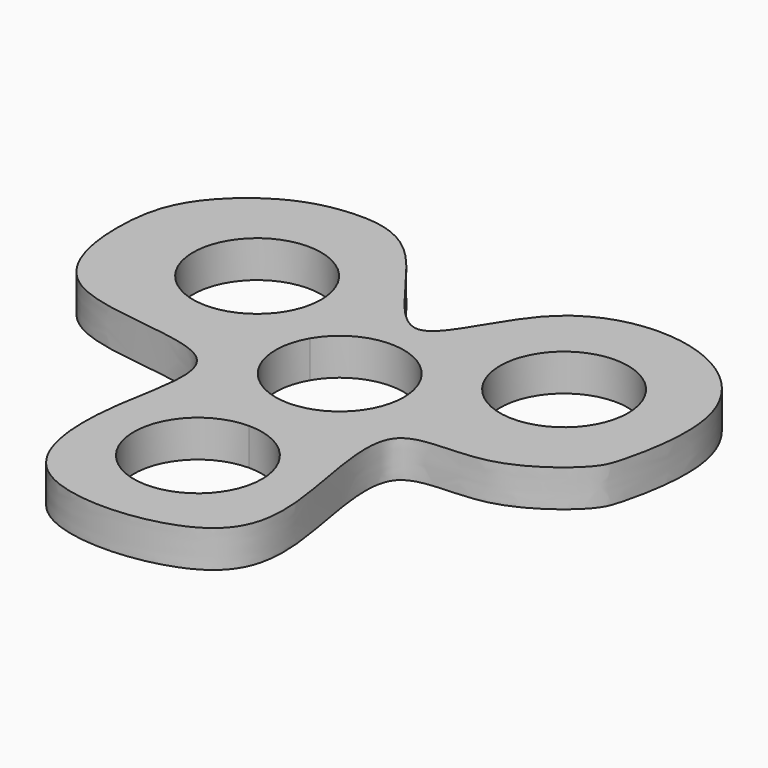
from build123d import *

# Parameters (mm, degrees)
F1_DEPTH = 6.35


with BuildPart() as f1:
    # F0 (on Top) → F1 (new body)
    with BuildSketch(Plane.XY):
        with BuildLine():
            add(Edge.make_bspline(
                [(-27.6587677753, 37.4569595952), (-23.8104111585, 37.6697318289), (-14.1868012855, 36.5426421602), (0.8758425791, 6.4364125485), (9.5318995293, 35.9093164782), (34.8504495607, 38.2697627864), (49.3514882231, 23.0322160254), (45.5104445042, 4.2625409248), (43.8221363309, -0.2543203841), (31.7294806949, -9.8295436795), (11.8509290752, -5.5496045866), (21.0157856819, -34.1727476764), (16.2312404324, -49.7902405669), (-17.6259202816, -52.4004808733), (-19.1537045152, -26.1857076002), (-11.4710548267, -3.0767430982), (-47.5397979542, -7.1779768413), (-50.8365799851, 15.5878439689), (-47.9706694269, 27.0483109051), (-37.7772463087, 35.7175843357), (-31.0724762971, 37.2682186703), (-27.6587677753, 37.4569595952)],
                knots=[0, 0, 0, 0, 0.0462673734, 0.1076704236, 0.1633934178, 0.2239670718, 0.2794997492, 0.3328338693, 0.3614099236, 0.4101380589, 0.4580653735, 0.5199716618, 0.5694576703, 0.6343931645, 0.6946440722, 0.7486969922, 0.8142578577, 0.8693237863, 0.9136799251, 0.9589582404, 1, 1, 1, 1], degree=3))
        make_face()
        with BuildLine():
            ThreePointArc((11.0109, -30.48), (-7.785882057, -38.265882057), (0, -19.4691))
            ThreePointArc((0, -19.4691), (7.785882057, -22.694117943), (11.0109, -30.48))
        make_face(mode=Mode.SUBTRACT)
        with BuildLine():
            ThreePointArc((-15.3855543073, 15.24), (-15.7607416267, 12.3901693763), (-16.8607351888, 9.73455))
            ThreePointArc((-16.8607351888, 9.73455), (-37.032166988, 18.0898306237), (-15.3855543073, 15.24))
        make_face(mode=Mode.SUBTRACT)
        with BuildLine():
            ThreePointArc((9.5357191185, 5.50545), (10.6357126807, 2.8498306237), (11.0109, 0))
            ThreePointArc((11.0109, 0), (7.785882057, -7.785882057), (0, -11.0109))
            ThreePointArc((0, -11.0109), (-9.5357191185, -5.50545), (-9.5357191185, 5.50545))
            ThreePointArc((-9.5357191185, 5.50545), (0, 11.0109), (9.5357191185, 5.50545))
        make_face(mode=Mode.SUBTRACT)
        with BuildLine():
            ThreePointArc((37.4073543073, 15.24), (29.2462849311, 4.6042873193), (16.8607351888, 9.73455))
            ThreePointArc((16.8607351888, 9.73455), (23.5466236836, 25.8757126807), (37.4073543073, 15.24))
        make_face(mode=Mode.SUBTRACT)
    extrude(amount=F1_DEPTH)


solid = f1.part
